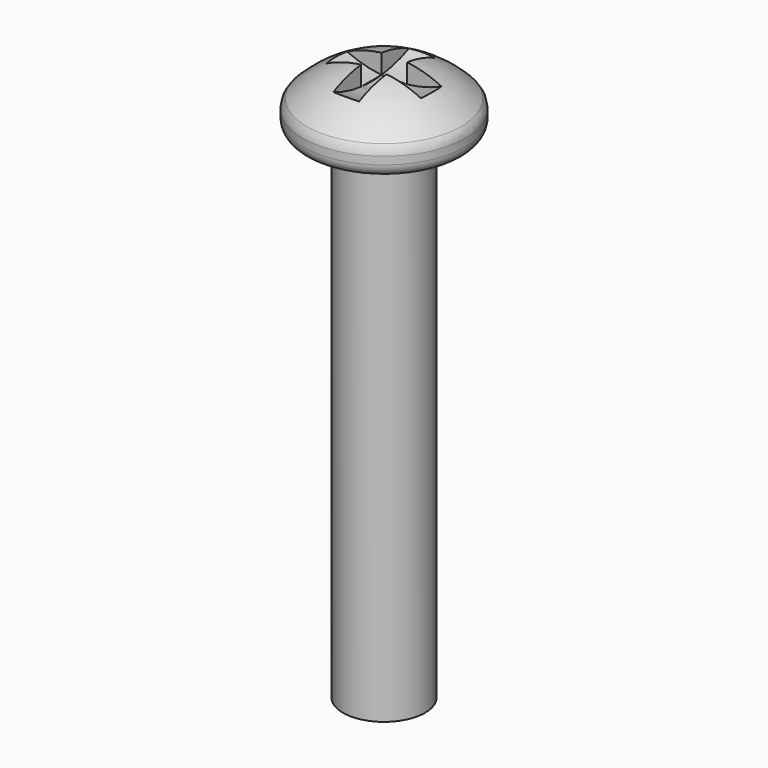
from build123d import *

# Parameters (mm, degrees)
F2_R     = 0.635
F3_R     = 5.715
F4_DEPTH = 0.635
F5_R     = 5.715
F6_DEPTH = 0.635


with BuildPart() as f1:
    # F0 (on Front) → F1 (revolve)
    with BuildSketch(Plane.XZ):
        with BuildLine():
            Line((0, 27.686), (0, 0))
            Line((0, 0), (2.032, 0))
            Line((2.032, 0), (2.032, 24.638))
            Line((2.032, 24.638), (4.0005, 24.638))
            Line((4.0005, 24.638), (4.0005, 25.908))
            ThreePointArc((4.0005, 25.908), (2.188909, 27.221482), (0, 27.686))
        make_face()
    revolve(axis=Axis((0, 0, 13.843), (0, 0, -1)))

    # F2
    f2_edges = [f1.edges().sort_by_distance(p)[0] for p in [
        (-4.0005, 0, 24.638),
        (-4.0005, 0, 25.908),
    ]]
    fillet(f2_edges, radius=F2_R)

    # F3 (on Right) → F4 (cut, symmetric)
    with BuildSketch(Plane.YZ):
        with Locations((0, 32.326443)):
            Circle(F3_R)
    extrude(amount=F4_DEPTH, both=True, mode=Mode.SUBTRACT)

    # F5 (on Front) → F6 (cut, symmetric)
    with BuildSketch(Plane.XZ):
        with Locations((0, 32.326443)):
            Circle(F5_R)
    extrude(amount=F6_DEPTH, both=True, mode=Mode.SUBTRACT)


solid = f1.part
